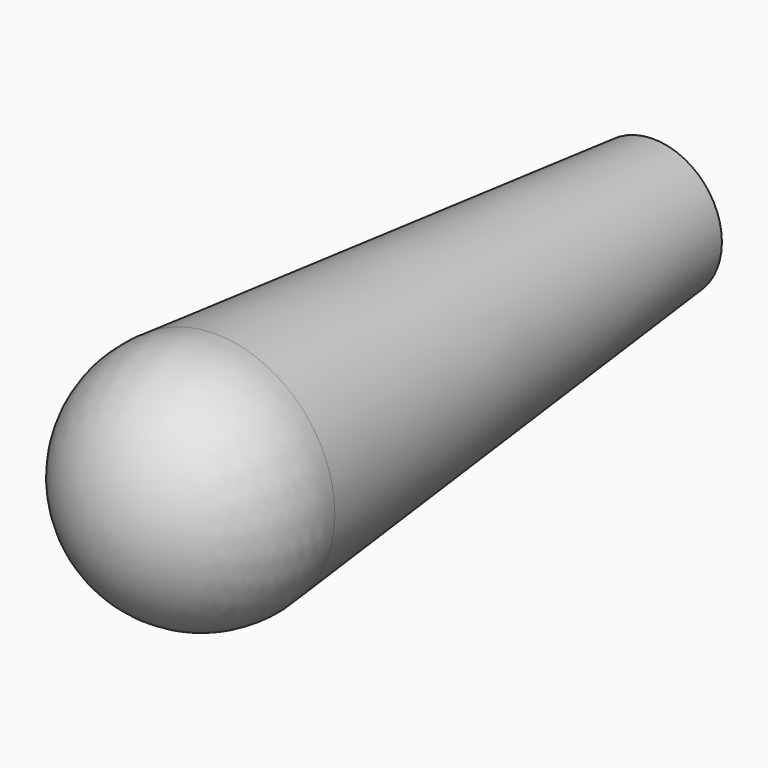
from build123d import *

# Parameters (mm, degrees)
F0_R     = 12.7
F2_R     = 22.225
F6_R     = 6.35
F7_DEPTH = 101.6


with BuildPart() as f3:
    # F0 (on Front) → F3 section 0
    with BuildSketch(Plane.XZ):
        Circle(F0_R)
    # F2 (on offset) → F3 section 1
    with BuildSketch(Plane.XZ.offset(101.6)):
        Circle(F2_R)
    loft()

    # F4 (on Right) → F5 (revolve)
    with BuildSketch(Plane.YZ):
        with BuildLine():
            Line((-127, 0), (-101.6, 0))
            Line((-101.6, 0), (-101.6, 22.225))
            ThreePointArc((-101.6, 22.225), (-119.457288, 17.006543), (-127, 0))
        make_face()
    revolve(axis=Axis((0, -114.3, 0), (0, -1, 0)))

    # F6 (on face) → F7 (cut)
    with BuildSketch(Plane(origin=(0, 0, 0), x_dir=(-1, 0, 0), z_dir=(0, 1, 0))):
        Circle(F6_R)
    extrude(amount=-F7_DEPTH, mode=Mode.SUBTRACT)


solid = f3.part
